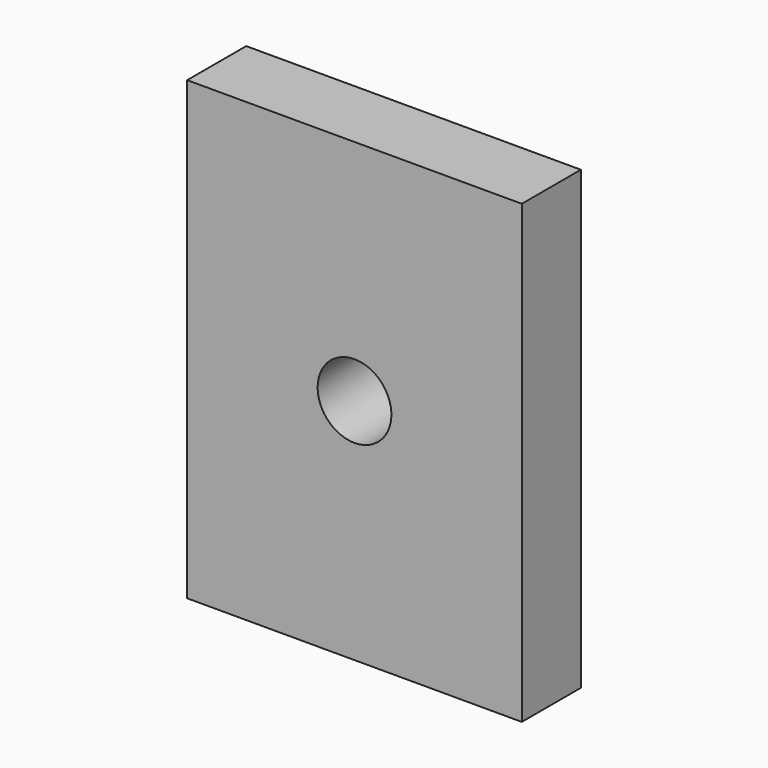
from build123d import *

# Parameters (mm, degrees)
F0_W     = 90.726256
F0_H     = 123.668522
F1_DEPTH = 20
F2_R     = 10
F3_DEPTH = 25


with BuildPart() as f1:
    # F0 (on Front) → F1 (new body)
    with BuildSketch(Plane.XZ):
        Rectangle(F0_W, F0_H)
    extrude(amount=F1_DEPTH)

    # F2 (on face) → F3 (cut)
    with BuildSketch(Plane(origin=(0, 0, 0), x_dir=(-1, 0, 0), z_dir=(0, 1, 0))):
        Circle(F2_R)
    extrude(amount=-F3_DEPTH, mode=Mode.SUBTRACT)


solid = f1.part
